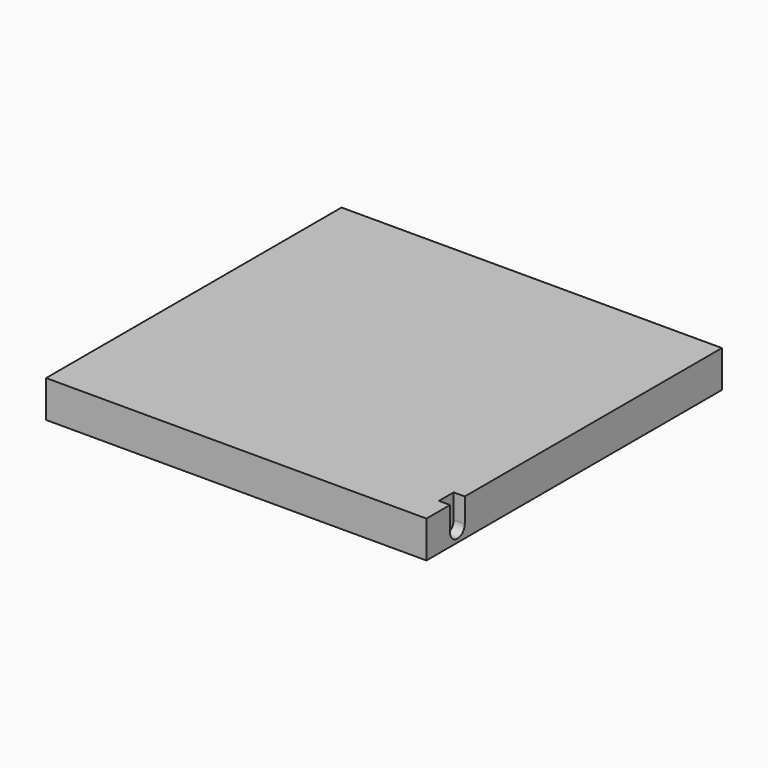
from build123d import *

# Parameters (mm, degrees)
F0_W     = 500
F0_H     = 500
F1_DEPTH = 50
F3_DEPTH = 15


with BuildPart() as f1:
    # F0 (on Top) → F1 (new body)
    with BuildSketch(Plane.XY):
        Rectangle(F0_W, F0_H)
    extrude(amount=F1_DEPTH)

    # F2 (on face) → F3 (join)
    with BuildSketch(Plane.YZ.offset(250)):
        with BuildLine():
            Line((-185.177746, 42.257256), (-185.177746, 17.257256))
            ThreePointArc((-185.177746, 17.257256), (-197.677746, 4.757256), (-210.177746, 17.257256))
            Line((-210.177746, 17.257256), (-210.177746, 42.257256))
            Line((-210.177746, 42.257256), (-210.177746, 50))
            Line((-210.177746, 50), (-250, 50))
            Line((-250, 50), (-250, 0))
            Line((-250, 0), (250, 0))
            Line((250, 0), (250, 50))
            Line((250, 50), (-185.177746, 50))
            Line((-185.177746, 50), (-185.177746, 42.257256))
        make_face()
    extrude(amount=F3_DEPTH)


solid = f1.part
